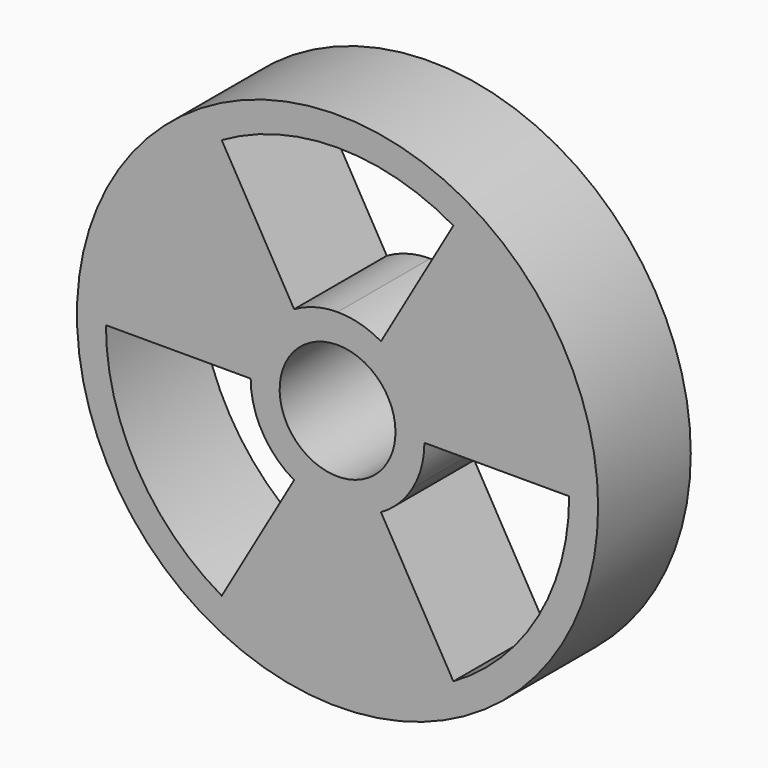
from build123d import *

# Parameters (mm, degrees)
F0_R     = 57.15
F1_DEPTH = 25.4


with BuildPart() as f1:
    # F0 (on Front) → F1 (new body)
    with BuildSketch(Plane.XZ):
        Circle(F0_R)
        with BuildLine():
            ThreePointArc((-25.4, -43.994091), (-43.994091, -25.4), (-50.8, 0))
            Line((-50.8, 0), (-19.05, 0))
            ThreePointArc((-19.05, 0), (-16.497784, -9.525), (-9.525, -16.497784))
            Line((-9.525, -16.497784), (-25.4, -43.994091))
        make_face(mode=Mode.SUBTRACT)
        with BuildLine():
            ThreePointArc((9.525, -16.497784), (13.470384, -13.470384), (16.497784, -9.525))
            ThreePointArc((16.497784, -9.525), (18.400887, -4.930503), (19.05, 0))
            Line((19.05, 0), (50.8, 0))
            ThreePointArc((50.8, 0), (49.069032, -13.148007), (43.994091, -25.4))
            ThreePointArc((43.994091, -25.4), (35.921024, -35.921024), (25.4, -43.994091))
            Line((25.4, -43.994091), (9.525, -16.497784))
        make_face(mode=Mode.SUBTRACT)
        with BuildLine():
            ThreePointArc((10.998523, -6.35), (-10.998523, -6.35), (0, 12.7))
            ThreePointArc((0, 12.7), (8.980256, 8.980256), (12.7, 0))
            ThreePointArc((12.7, 0), (12.267258, -3.287002), (10.998523, -6.35))
        make_face(mode=Mode.SUBTRACT)
        with BuildLine():
            ThreePointArc((9.525, 16.497784), (4.930503, 18.400887), (0, 19.05))
            ThreePointArc((0, 19.05), (-4.930503, 18.400887), (-9.525, 16.497784))
            Line((-9.525, 16.497784), (-25.4, 43.994091))
            ThreePointArc((-25.4, 43.994091), (-13.148007, 49.069032), (0, 50.8))
            ThreePointArc((0, 50.8), (13.148007, 49.069032), (25.4, 43.994091))
            Line((25.4, 43.994091), (9.525, 16.497784))
        make_face(mode=Mode.SUBTRACT)
    extrude(amount=F1_DEPTH)


solid = f1.part
